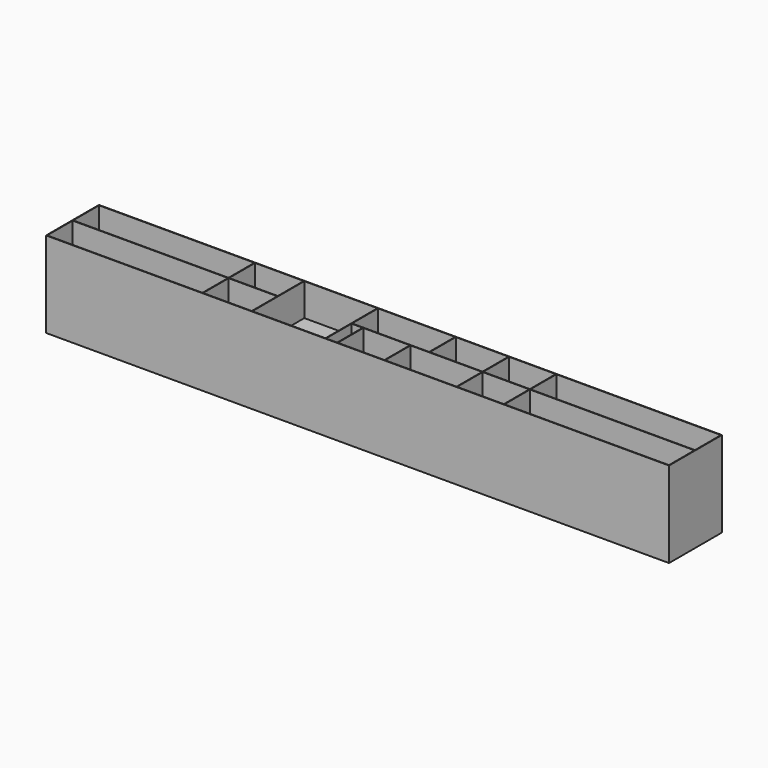
from build123d import *

# Parameters (mm, degrees)
F0_W     = 3894.3788
F0_H     = 413.2072
F0_W_2   = 971.55
F0_H_2   = 3.4036
F0_W_3   = 304.8
F0_W_4   = 3.4036
F0_H_3   = 199.7964
F0_W_5   = 330.2
F0_W_6   = 292.1
F0_W_7   = 1028.7
F1_DEPTH = 533.4
F2_W     = 3894.3788
F2_H     = 413.2072
F3_DEPTH = 3.4036
F4_DEPTH = 330.2


with BuildPart() as f1:
    # F0 (on Top) → F1 (new body)
    with BuildSketch(Plane.XY):
        Rectangle(F0_W, F0_H)
        Polygon((-1943.7858, 0), (-1943.7858, 203.2), (-972.2358, 203.2), (-968.8322, 203.2), (-664.0322, 203.2), (-660.6286, 203.2), (-203.4286, 203.2), (-200.025, 203.2), (282.575, 203.2), (285.9786, 203.2), (616.1786, 203.2), (619.5822, 203.2), (911.6822, 203.2), (915.0858, 203.2), (1943.7858, 203.2), (1943.7858, 0), (1943.7858, -3.4036), (1943.7858, -203.2), (915.0858, -203.2), (911.6822, -203.2), (619.5822, -203.2), (616.1786, -203.2), (168.7322, -203.2), (165.3286, -203.2), (-126.7714, -203.2), (-130.175, -203.2), (-200.025, -203.2), (-203.4286, -203.2), (-660.6286, -203.2), (-664.0322, -203.2), (-968.8322, -203.2), (-972.2358, -203.2), (-1943.7858, -203.2), (-1943.7858, -3.4036), align=None, mode=Mode.SUBTRACT)
        with Locations((-1458.0108, -1.7018)):
            Rectangle(F0_W_2, F0_H_2)
        Polygon((-968.8322, 203.2), (-972.2358, 203.2), (-972.2358, 0), (-972.2358, -3.4036), (-972.2358, -203.2), (-968.8322, -203.2), (-968.8322, -3.4036), (-968.8322, 0), align=None)
        with Locations((-816.4322, -1.7018)):
            Rectangle(F0_W_3, F0_H_2)
        Polygon((-660.6286, 203.2), (-664.0322, 203.2), (-664.0322, 0), (-664.0322, -3.4036), (-664.0322, -203.2), (-660.6286, -203.2), align=None)
        Polygon((-200.025, 203.2), (-203.4286, 203.2), (-203.4286, -203.2), (-200.025, -203.2), (-200.025, -3.4036), (-200.025, 0), align=None)
        Polygon((282.575, 0), (-200.025, 0), (-200.025, -3.4036), (-130.175, -3.4036), (-126.7714, -3.4036), (165.3286, -3.4036), (168.7322, -3.4036), (282.575, -3.4036), align=None)
        with Locations((-128.4732, -103.3018)):
            Rectangle(F0_W_4, F0_H_3)
        with Locations((167.0304, -103.3018)):
            Rectangle(F0_W_4, F0_H_3)
        Polygon((285.9786, 203.2), (282.575, 203.2), (282.575, 0), (282.575, -3.4036), (285.9786, -3.4036), (285.9786, 0), align=None)
        with Locations((451.0786, -1.7018)):
            Rectangle(F0_W_5, F0_H_2)
        Polygon((619.5822, 203.2), (616.1786, 203.2), (616.1786, 0), (616.1786, -3.4036), (616.1786, -203.2), (619.5822, -203.2), (619.5822, -3.4036), (619.5822, 0), align=None)
        with Locations((765.6322, -1.7018)):
            Rectangle(F0_W_6, F0_H_2)
        Polygon((915.0858, 203.2), (911.6822, 203.2), (911.6822, 0), (911.6822, -3.4036), (911.6822, -203.2), (915.0858, -203.2), (915.0858, -3.4036), (915.0858, 0), align=None)
        with Locations((1429.4358, -1.7018)):
            Rectangle(F0_W_7, F0_H_2)
    extrude(amount=F1_DEPTH)

    # F2 (on face) → F3 (join)
    with BuildSketch(Plane(origin=(0, 0, 0), x_dir=(1, 0, 0), z_dir=(0, 0, -1))):
        Rectangle(F2_W, F2_H)
    extrude(amount=F3_DEPTH)

    # F4 (add): faces of the model
    f4_faces = [f1.faces().sort_by_distance(p)[0] for p in [
        (765.6322, 101.6, 0),
        (765.6322, -103.3018, 0),
        (392.4554, -103.3018, 0),
        (451.0786, 101.6, 0),
        (41.275, 101.6, 0),
        (19.2786, -103.3018, 0),
        (-165.1, -103.3018, 0),
        (-432.0286, 0, 0),
        (-816.4322, 101.6, 0),
        (-816.4322, -103.3018, 0),
    ]]
    extrude(f4_faces, amount=F4_DEPTH)


solid = f1.part
